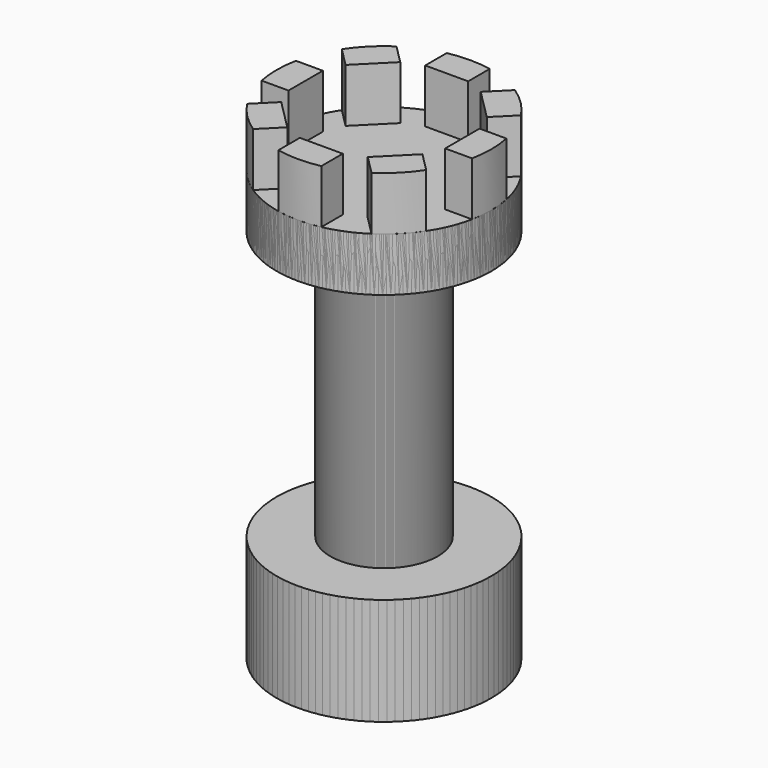
from build123d import *

# Parameters (mm, degrees)
F3_DEPTH = 10
F4_COUNT = 8


with BuildPart() as f1:
    # F0 (on Front) → F1 (revolve)
    with BuildSketch(Plane.XZ):
        Polygon((20, 40), (0, 40), (0, -40), (20, -40), (20, -20), (10, -20), (10, 30), (20, 30), align=None)
    revolve(axis=Axis((0, 0, 0.300206), (0, 0, -1)))

    # F2 (on face) → F3 (join)
    with BuildSketch(Plane.XY.offset(40)):
        with BuildLine():
            ThreePointArc((4, 19.595918), (0, 20), (-4, 19.595918))
            Line((-4, 19.595918), (-4, 14.595918))
            Line((-4, 14.595918), (4, 14.595918))
            Line((4, 14.595918), (4, 19.595918))
        make_face()
    extrude(amount=F3_DEPTH)


with BuildPart() as f4_1:
    # F4: instance of F1
    add(f1.part.rotate(Axis((0, 0, 30), (0, 0, 1)), 1 * 360 / F4_COUNT))


with BuildPart() as f4_2:
    # F4: instance of F1
    add(f1.part.rotate(Axis((0, 0, 30), (0, 0, 1)), 2 * 360 / F4_COUNT))


with BuildPart() as f4_3:
    # F4: instance of F1
    add(f1.part.rotate(Axis((0, 0, 30), (0, 0, 1)), 3 * 360 / F4_COUNT))


with BuildPart() as f4_4:
    # F4: instance of F1
    add(f1.part.rotate(Axis((0, 0, 30), (0, 0, 1)), 4 * 360 / F4_COUNT))


with BuildPart() as f4_5:
    # F4: instance of F1
    add(f1.part.rotate(Axis((0, 0, 30), (0, 0, 1)), 5 * 360 / F4_COUNT))


with BuildPart() as f4_6:
    # F4: instance of F1
    add(f1.part.rotate(Axis((0, 0, 30), (0, 0, 1)), 6 * 360 / F4_COUNT))


with BuildPart() as f4_7:
    # F4: instance of F1
    add(f1.part.rotate(Axis((0, 0, 30), (0, 0, 1)), 7 * 360 / F4_COUNT))


solid = Compound([f1.part, f4_1.part, f4_2.part, f4_3.part, f4_4.part, f4_5.part, f4_6.part, f4_7.part])
